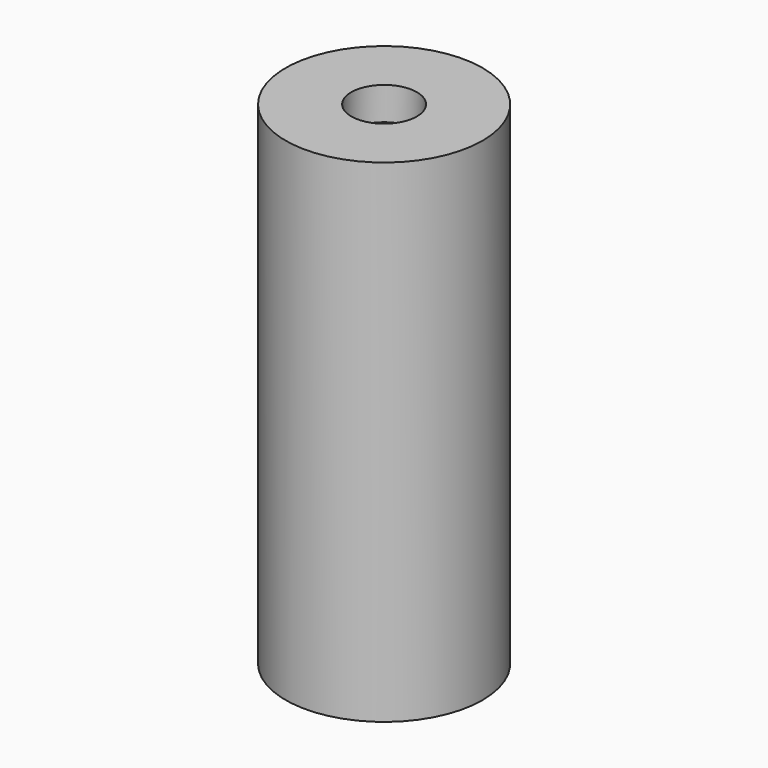
from build123d import *

# Parameters (mm, degrees)
CYLINDER002_R     = 0.07
CYLINDER002_DEPTH = 0.1
CYLINDER003_R     = 0.1
CYLINDER003_DEPTH = 2
CYLINDER_R        = 0.3
CYLINDER_DEPTH    = 1.5


with BuildPart() as emitting_region:
    # Cylinder002 → Cylinder002 (new body)
    with BuildSketch(Plane.XY.offset(0.52)):
        Circle(CYLINDER002_R)
    extrude(amount=CYLINDER002_DEPTH)


with BuildPart() as cylinder001:
    # Cylinder003 → Cylinder003 (new body)
    with BuildSketch(Plane.XY.offset(0.5)):
        Circle(CYLINDER003_R)
    extrude(amount=CYLINDER003_DEPTH)


with BuildPart() as fusion:
    # Cone → Cone (revolve)
    with BuildSketch(Plane(origin=(0, 0, 0.6), x_dir=(1, 0, 0), z_dir=(0, -1, 0))):
        Polygon((0, 0), (0.1, 0), (0.25, 0.8), (0, 0.8), align=None)
    revolve(axis=Axis((0, 0, 0.6), (0, 0, 1)))

    # Fusion: union Cylinder001
    add(cylinder001.part)


with BuildPart() as cut:
    # Cylinder → Cylinder (new body)
    with BuildSketch(Plane.XY):
        Circle(CYLINDER_R)
    extrude(amount=CYLINDER_DEPTH)

    # Cut: cut Fusion
    add(fusion.part, mode=Mode.SUBTRACT)


solid = Compound([emitting_region.part, cut.part])
